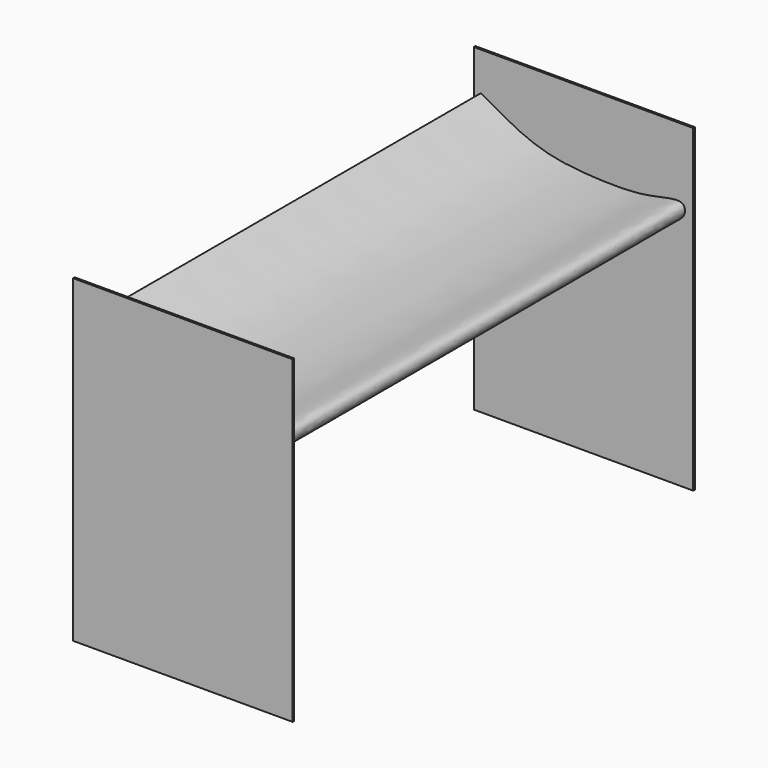
from build123d import *

# Parameters (mm, degrees)
F0_W     = 110
F0_H     = 75
F1_DEPTH = 1
F3_DEPTH = 250
F0_H_2   = 85
F4_DEPTH = 1
F5_W     = 110
F5_H     = 85
F5_H_2   = 75
F6_DEPTH = 1
F7_DEPTH = 1


with BuildPart() as f1:
    # F0 (on Front) → F1 (new body)
    with BuildSketch(Plane.XZ):
        Rectangle(F0_W, F0_H)
    extrude(amount=F1_DEPTH)

    # F2 (on face) → F3 (join)
    with BuildSketch(Plane(origin=(0, 0, 0), x_dir=(-1, 0, 0), z_dir=(0, 1, 0))):
        with BuildLine():
            add(Edge.make_bspline(
                [(0, 0), (10.274828396, 0.8076554873), (27.6733988694, 3.3523735173), (62.346710729, 25.7450885093), (29.9677721855, 1.2952187965), (10.6518566682, -6.9318127816), (-27.3086461257, -14.726935353), (-51.8721801408, -5.2495100826), (-50.7166381839, 3.2673718031), (-43.1130226627, 3.089850711), (-28.2947971804, -1.2236646657), (-9.8258362936, -0.7723623494), (0, 0)],
                knots=[0, 0, 0, 0, 0.124138688, 0.2310918526, 0.3373816232, 0.4496913893, 0.5867729237, 0.6922355614, 0.7411173205, 0.7946123759, 0.8812859564, 1, 1, 1, 1], degree=3))
        make_face()
    extrude(amount=F3_DEPTH)

    # F0 (on Front) → F4 (join)
    with BuildSketch(Plane.XZ):
        Rectangle(F0_W, F0_H)
        with Locations((0, -80)):
            Rectangle(F0_W, F0_H_2)
    extrude(amount=F4_DEPTH)

    # F5 (on face) → F6 (join)
    with BuildSketch(Plane(origin=(0, 250, 0), x_dir=(-1, 0, 0), z_dir=(0, 1, 0))):
        with Locations((0, -80)):
            Rectangle(F5_W, F5_H)
        Rectangle(F5_W, F5_H_2)
    extrude(amount=F6_DEPTH)

    # F5 (on face) → F7 (join)
    with BuildSketch(Plane(origin=(0, 250, 0), x_dir=(-1, 0, 0), z_dir=(0, 1, 0))):
        with Locations((0, -80)):
            Rectangle(F5_W, F5_H)
        Rectangle(F5_W, F5_H_2)
    extrude(amount=F7_DEPTH)


solid = f1.part
